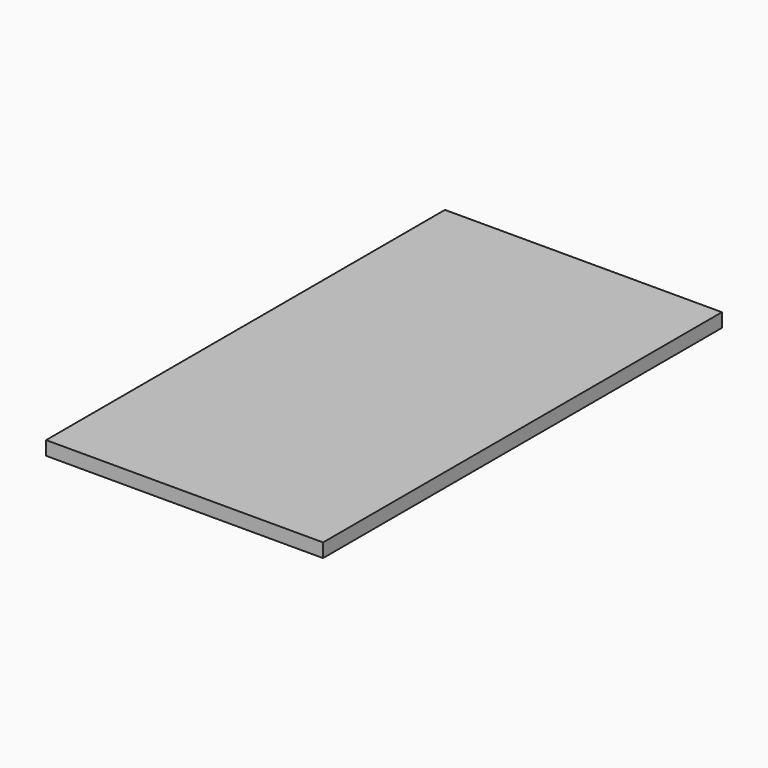
from build123d import *

# Parameters (mm, degrees)
F0_W     = 508
F0_H     = 914.4
F1_DEPTH = 25.4
F2_W     = 52.3558772112
F2_H     = 33.1072211266
F3_DEPTH = 2.54
F4_W     = 48.3446559812
F4_H     = 27.2626578808
F5_DEPTH = 2.54


with BuildPart() as f1:
    # F0 (on Top) → F1 (new body)
    with BuildSketch(Plane.XY):
        with Locations((93.2292269563, 41.5309555829)):
            Rectangle(F0_W, F0_H)
    extrude(amount=F1_DEPTH)

    # F2 (on face) → F3 (cut)
    with BuildSketch(Plane(origin=(0, 0, 0), x_dir=(1, 0, 0), z_dir=(0, 0, -1))):
        with Locations((-134.5928344381, 364.0698194504)):
            Rectangle(F2_W, F2_H)
    extrude(amount=-F3_DEPTH, mode=Mode.SUBTRACT)

    # F4 (on face) → F5 (cut)
    with BuildSketch(Plane(origin=(0, 0, 0), x_dir=(1, 0, 0), z_dir=(0, 0, -1))):
        with Locations((-136.5984450532, -451.6562968493)):
            Rectangle(F4_W, F4_H)
    extrude(amount=-F5_DEPTH, mode=Mode.SUBTRACT)


solid = f1.part
